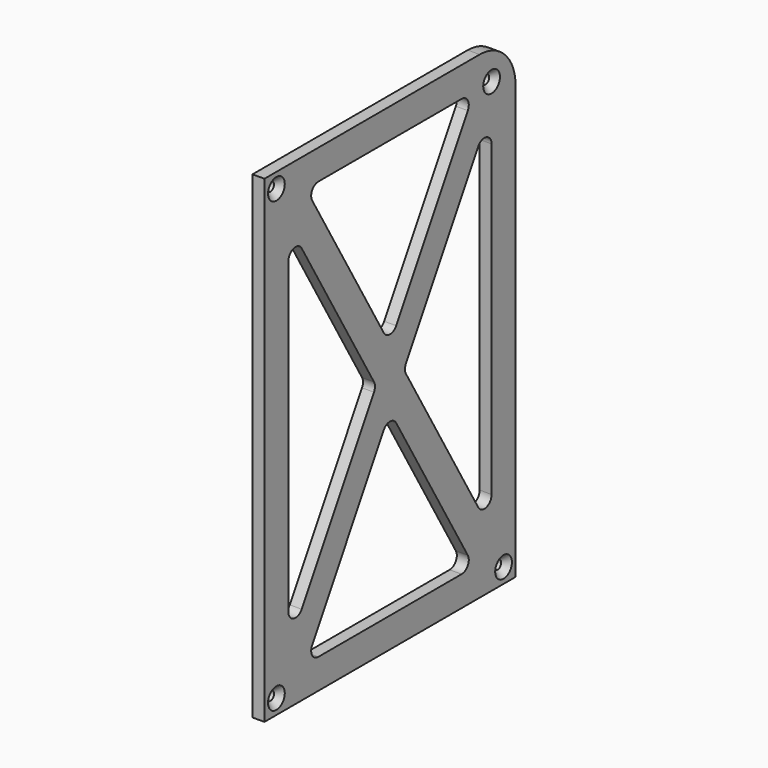
from build123d import *

# Parameters (mm, degrees)
SKETCH_R     = 1.5
PAD_DEPTH    = 4
FILLET_R     = 3
CHAMFER_SIZE = 2


with BuildPart() as part:
    # Sketch → Pad (new body)
    with BuildSketch(Plane.YZ):
        with BuildLine():
            Line((0, 0), (105, 0))
            Line((105, 0), (105, 145))
            ThreePointArc((105, 145), (100.606602, 155.606602), (90, 160))
            Line((0, 160), (90, 160))
            Line((0, 160), (0, 0))
        make_face()
        with Locations((5, 155)):
            Circle(SKETCH_R, mode=Mode.SUBTRACT)
        with Locations((5, 5)):
            Circle(SKETCH_R, mode=Mode.SUBTRACT)
        with Locations((100, 5)):
            Circle(SKETCH_R, mode=Mode.SUBTRACT)
        with Locations((95, 150)):
            Circle(SKETCH_R, mode=Mode.SUBTRACT)
        Polygon((17.30871, 10), (87.69129, 10), (52.5, 70.104262), align=None, mode=Mode.SUBTRACT)
        Polygon((95, 17.30871), (95, 142.69129), (58.293995, 80), align=None, mode=Mode.SUBTRACT)
        Polygon((87.69129, 150), (17.30871, 150), (52.5, 89.895738), align=None, mode=Mode.SUBTRACT)
        Polygon((10, 142.69129), (10, 17.30871), (46.706005, 80), align=None, mode=Mode.SUBTRACT)
    extrude(amount=PAD_DEPTH)

    # Fillet
    fillet_edges = [part.edges().sort_by_distance(p)[0] for p in [
        (2, 52.5, 89.895738),
        (2, 58.293995, 80),
        (2, 52.5, 70.104262),
        (2, 46.706005, 80),
        (2, 17.30871, 150),
        (2, 87.69129, 150),
        (2, 10, 142.69129),
        (2, 95, 142.69129),
        (2, 10, 17.30871),
        (2, 17.30871, 10),
        (2, 95, 17.30871),
        (2, 87.69129, 10),
    ]]
    fillet(fillet_edges, radius=FILLET_R)

    # Chamfer
    chamfer_edges = [part.edges().sort_by_distance(p)[0] for p in [
        (4, 3.5, 155),
        (4, 93.5, 150),
        (4, 98.5, 5),
        (4, 3.5, 5),
    ]]
    chamfer(chamfer_edges, length=CHAMFER_SIZE)


solid = part.part
